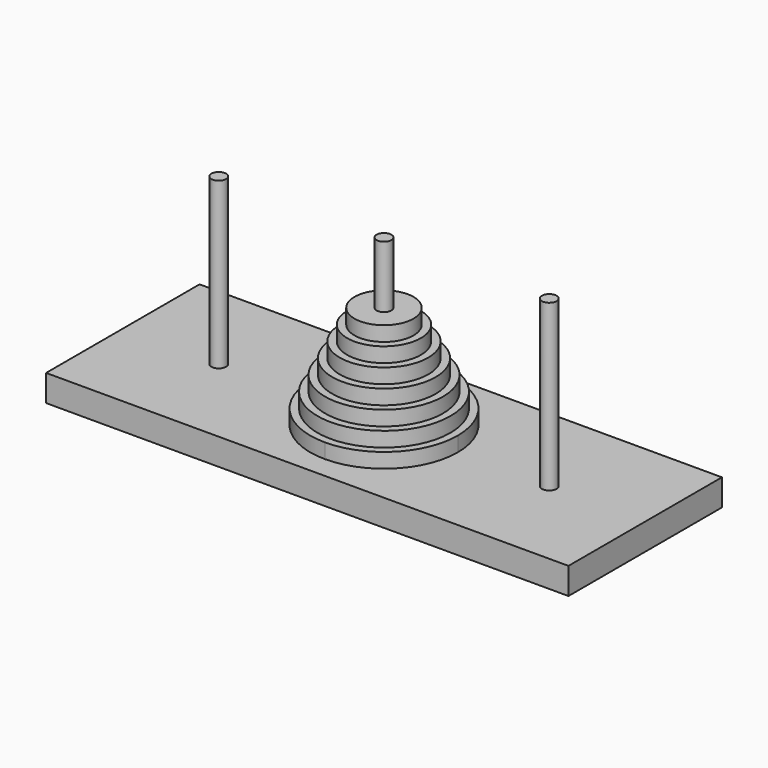
from build123d import *

# Parameters (mm, degrees)
F0_W      = 177
F0_H      = 9
F1_DEPTH  = 65
F3_DEPTH  = 56
F5_DEPTH  = 5
F6_R      = 22.5
F6_R_2    = 2.5
F7_DEPTH  = 5
F8_R      = 20
F8_R_2    = 2.5
F9_DEPTH  = 5
F10_R     = 17.5
F10_R_2   = 2.5
F11_DEPTH = 5
F12_R     = 15
F12_R_2   = 2.5
F13_DEPTH = 5
F14_R     = 12.5
F14_R_2   = 2.5
F15_DEPTH = 5
F16_R     = 10
F16_R_2   = 2.5
F17_DEPTH = 5


with BuildPart() as f1:
    # F0 (on Front) → F1 (new body)
    with BuildSketch(Plane.XZ):
        with Locations((-38.2628371716, 16.0677108988)):
            Rectangle(F0_W, F0_H)
    extrude(amount=F1_DEPTH)

    # F2 (on face) → F3 (join)
    with BuildSketch(Plane.XY.offset(20.5677108988)):
        with BuildLine():
            ThreePointArc((15.2371628284, -32.5), (17.7371628284, -35), (20.2371628284, -32.5))
            Line((20.2371628284, -32.5), (17.7371628284, -32.5))
            Line((17.7371628284, -32.5), (15.2371628284, -32.5))
        make_face()
        with BuildLine():
            Line((17.7371628284, -32.5), (20.2371628284, -32.5))
            ThreePointArc((20.2371628284, -32.5), (17.7371628284, -30), (15.2371628284, -32.5))
            Line((15.2371628284, -32.5), (17.7371628284, -32.5))
        make_face()
        with BuildLine():
            Line((-35.7628371716, -32.5), (-38.2628371716, -32.5))
            Line((-38.2628371716, -32.5), (-40.7628371716, -32.5))
            ThreePointArc((-40.7628371716, -32.5), (-38.2628371716, -35), (-35.7628371716, -32.5))
        make_face()
        with BuildLine():
            Line((-40.7628371716, -32.5), (-38.2628371716, -32.5))
            Line((-38.2628371716, -32.5), (-35.7628371716, -32.5))
            ThreePointArc((-35.7628371716, -32.5), (-38.2628371716, -30), (-40.7628371716, -32.5))
        make_face()
        with BuildLine():
            Line((-91.7628371716, -32.5), (-94.2628371716, -32.5))
            Line((-94.2628371716, -32.5), (-96.7628371716, -32.5))
            ThreePointArc((-96.7628371716, -32.5), (-94.2628371716, -35), (-91.7628371716, -32.5))
        make_face()
        with BuildLine():
            Line((-96.7628371716, -32.5), (-94.2628371716, -32.5))
            Line((-94.2628371716, -32.5), (-91.7628371716, -32.5))
            ThreePointArc((-91.7628371716, -32.5), (-94.2628371716, -30), (-96.7628371716, -32.5))
        make_face()
    extrude(amount=F3_DEPTH)


with BuildPart() as f5:
    # F4 (on face) → F5 (new body)
    with BuildSketch(Plane.XY.offset(20.5677108988)):
        with BuildLine():
            Line((-38.2628371716, -30), (-38.2628371716, -7.5))
            ThreePointArc((-38.2628371716, -7.5), (-63.2628371716, -32.5), (-38.2628371716, -57.5))
            Line((-38.2628371716, -57.5), (-38.2628371716, -35))
            ThreePointArc((-38.2628371716, -35), (-40.7628371716, -32.5), (-38.2628371716, -30))
        make_face()
        with BuildLine():
            ThreePointArc((-38.2628371716, -57.5), (-20.5851676419, -50.1776695297), (-13.2628371716, -32.5))
            ThreePointArc((-13.2628371716, -32.5), (-20.5851676419, -14.8223304703), (-38.2628371716, -7.5))
            Line((-38.2628371716, -7.5), (-38.2628371716, -30))
            ThreePointArc((-38.2628371716, -30), (-36.4950702186, -30.732233047), (-35.7628371716, -32.5))
            ThreePointArc((-35.7628371716, -32.5), (-36.4950702186, -34.267766953), (-38.2628371716, -35))
            Line((-38.2628371716, -35), (-38.2628371716, -57.5))
        make_face()
    extrude(amount=F5_DEPTH)


with BuildPart() as f7:
    # F6 (on face) → F7 (new body)
    with BuildSketch(Plane.XY.offset(25.5677108988)):
        with Locations((-38.2628371716, -32.5)):
            Circle(F6_R)
        with Locations((-38.2628371716, -32.5)):
            Circle(F6_R_2, mode=Mode.SUBTRACT)
    extrude(amount=F7_DEPTH)


with BuildPart() as f9:
    # F8 (on face) → F9 (new body)
    with BuildSketch(Plane.XY.offset(30.5677108988)):
        with Locations((-38.2628371716, -32.5)):
            Circle(F8_R)
        with Locations((-38.2628371716, -32.5)):
            Circle(F8_R_2, mode=Mode.SUBTRACT)
    extrude(amount=F9_DEPTH)


with BuildPart() as f11:
    # F10 (on face) → F11 (new body)
    with BuildSketch(Plane.XY.offset(35.5677108988)):
        with Locations((-38.2628371716, -32.5)):
            Circle(F10_R)
        with Locations((-38.2628371716, -32.5)):
            Circle(F10_R_2, mode=Mode.SUBTRACT)
    extrude(amount=F11_DEPTH)


with BuildPart() as f13:
    # F12 (on face) → F13 (new body)
    with BuildSketch(Plane.XY.offset(40.5677108988)):
        with Locations((-38.2628371716, -32.5)):
            Circle(F12_R)
        with Locations((-38.2628371716, -32.5)):
            Circle(F12_R_2, mode=Mode.SUBTRACT)
    extrude(amount=F13_DEPTH)


with BuildPart() as f15:
    # F14 (on face) → F15 (new body)
    with BuildSketch(Plane.XY.offset(45.5677108988)):
        with Locations((-38.2628371716, -32.5)):
            Circle(F14_R)
        with Locations((-38.2628371716, -32.5)):
            Circle(F14_R_2, mode=Mode.SUBTRACT)
    extrude(amount=F15_DEPTH)


with BuildPart() as f17:
    # F16 (on face) → F17 (new body)
    with BuildSketch(Plane.XY.offset(50.5677108988)):
        with Locations((-38.2628371716, -32.5)):
            Circle(F16_R)
        with Locations((-38.2628371716, -32.5)):
            Circle(F16_R_2, mode=Mode.SUBTRACT)
    extrude(amount=F17_DEPTH)


solid = Compound([f1.part, f5.part, f7.part, f9.part, f11.part, f13.part, f15.part, f17.part])
